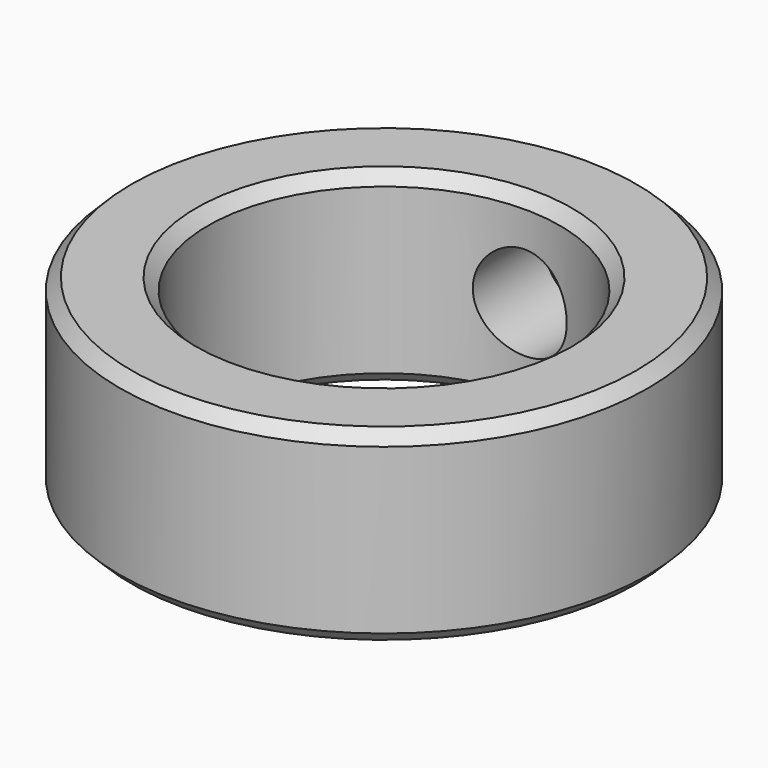
from build123d import *

# Parameters (mm, degrees)
SKETCH_R     = 22.5
SKETCH_R_2   = 15
PAD_DEPTH    = 8
SKETCH001_R  = 4
POCKET_DEPTH = 22.501
CHAMFER_SIZE = 1


with BuildPart() as part:
    # Sketch → Pad (new body, symmetric)
    with BuildSketch(Plane.XY):
        Circle(SKETCH_R)
        Circle(SKETCH_R_2, mode=Mode.SUBTRACT)
    extrude(amount=PAD_DEPTH, both=True)

    # Sketch001 → Pocket (cut, through all)
    with BuildSketch(Plane.XZ):
        Circle(SKETCH001_R)
    extrude(amount=-POCKET_DEPTH, mode=Mode.SUBTRACT)

    # Chamfer
    chamfer_edges = [part.edges().sort_by_distance(p)[0] for p in [
        (-15, 0, -8),
        (-22.5, 0, -8),
        (-15, 0, 8),
        (-22.5, 0, 8),
    ]]
    chamfer(chamfer_edges, length=CHAMFER_SIZE)


solid = part.part
